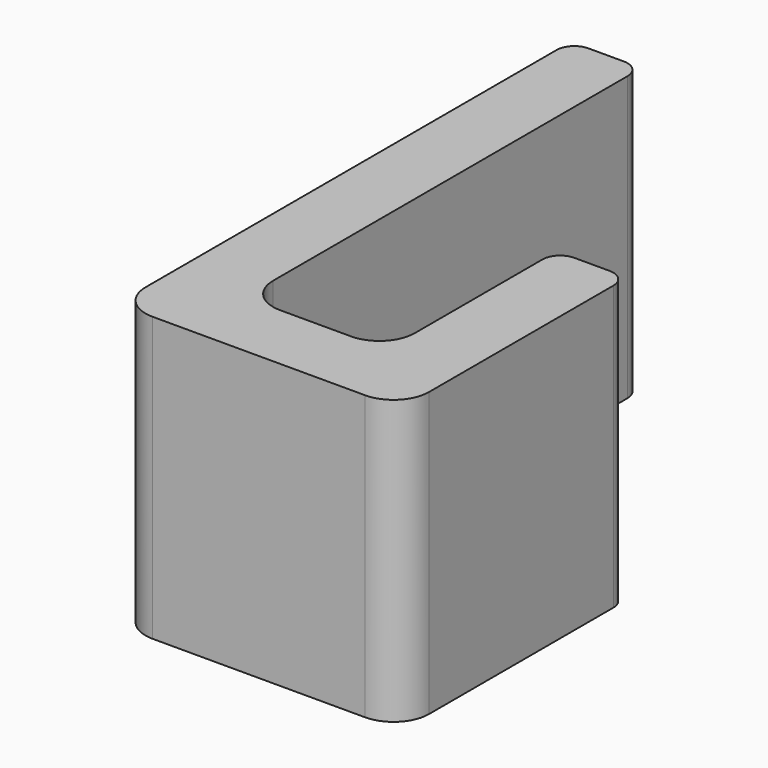
from build123d import *

# Parameters (mm, degrees)
PAD_DEPTH   = 16
FILLET_R    = 2
FILLET001_R = 2
FILLET002_R = 2
FILLET003_R = 2
FILLET004_R = 1
FILLET005_R = 1
FILLET006_R = 1
FILLET007_R = 1


with BuildPart() as part:
    # Sketch → Pad (new body)
    with BuildSketch(Plane.XY):
        Polygon((0, 0), (0, 32), (4, 32), (4, 4), (12, 4), (12, 16), (16, 16), (16, 0), align=None)
    extrude(amount=PAD_DEPTH)

    # Fillet
    fillet_edges = [part.edges().sort_by_distance(p)[0] for p in [
        (4, 4, 8),
    ]]
    fillet(fillet_edges, radius=FILLET_R)

    # Fillet001
    fillet001_edges = [part.edges().sort_by_distance(p)[0] for p in [
        (12, 4, 8),
    ]]
    fillet(fillet001_edges, radius=FILLET001_R)

    # Fillet002
    fillet002_edges = [part.edges().sort_by_distance(p)[0] for p in [
        (16, 0, 8),
    ]]
    fillet(fillet002_edges, radius=FILLET002_R)

    # Fillet003
    fillet003_edges = [part.edges().sort_by_distance(p)[0] for p in [
        (0, 0, 8),
    ]]
    fillet(fillet003_edges, radius=FILLET003_R)

    # Fillet004
    fillet004_edges = [part.edges().sort_by_distance(p)[0] for p in [
        (16, 16, 8),
    ]]
    fillet(fillet004_edges, radius=FILLET004_R)

    # Fillet005
    fillet005_edges = [part.edges().sort_by_distance(p)[0] for p in [
        (12, 16, 8),
    ]]
    fillet(fillet005_edges, radius=FILLET005_R)

    # Fillet006
    fillet006_edges = [part.edges().sort_by_distance(p)[0] for p in [
        (4, 32, 8),
    ]]
    fillet(fillet006_edges, radius=FILLET006_R)

    # Fillet007
    fillet007_edges = [part.edges().sort_by_distance(p)[0] for p in [
        (0, 32, 8),
    ]]
    fillet(fillet007_edges, radius=FILLET007_R)


solid = part.part
